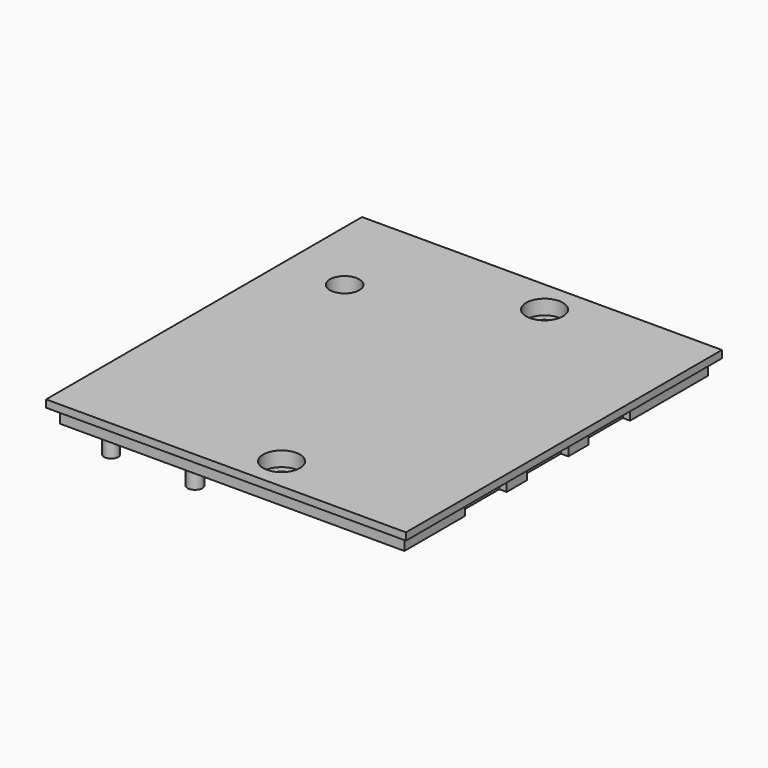
from build123d import *

# Parameters (mm, degrees)
SKETCH005_W     = 48.896005
SKETCH005_H     = 53.655467
PAD003_DEPTH    = 1
SKETCH006_W     = 46.796005
SKETCH006_H     = 51.555467
PAD004_DEPTH    = 2
SKETCH007_R     = 0.95
SKETCH007_R_2   = 1.001433
SKETCH007_R_3   = 1
SKETCH007_R_4   = 0.951025
PAD005_DEPTH    = 3
SKETCH008_R     = 2.5
POCKET002_DEPTH = 2
SKETCH009_R     = 1.5
POCKET003_DEPTH = 5
SKETCH010_W     = 7.035641
SKETCH010_H     = 2
SKETCH010_W_2   = 7.054697
SKETCH010_W_3   = 7.079575
POCKET004_DEPTH = 1
SKETCH011_R     = 2
POCKET005_DEPTH = 5


with BuildPart() as part:
    # Sketch005 (on Face1 of CopyBinder) → Pad003 (new body)
    with BuildSketch(Plane.XY.offset(6.0393)):
        with Locations((23.137507, 25.410293)):
            Rectangle(SKETCH005_W, SKETCH005_H)
    extrude(amount=PAD003_DEPTH)

    # Sketch006 (on Face5 of Pad003) → Pad004 (join)
    with BuildSketch(Plane(origin=(0, 0, 6.0393), x_dir=(1, 0, 0), z_dir=(0, 0, -1))):
        with Locations((23.137507, -25.410293)):
            Rectangle(SKETCH006_W, SKETCH006_H)
    extrude(amount=PAD004_DEPTH)

    # Sketch007 (on Face2 of Binder001) → Pad005 (join)
    with BuildSketch(Plane.XY.offset(1.0393)):
        with Locations((4.794625, 2.000882)):
            Circle(SKETCH007_R)
        with Locations((16.190751, 1.997755)):
            Circle(SKETCH007_R_2)
        with Locations((27.124204, 11.274795)):
            Circle(SKETCH007_R_3)
        with Locations((27.14775, 36.64242)):
            Circle(SKETCH007_R_3)
        with Locations((16.21209, 49.004375)):
            Circle(SKETCH007_R_4)
        with Locations((4.787556, 48.988897)):
            Circle(SKETCH007_R)
    extrude(amount=PAD005_DEPTH)

    # Sketch008 (on Face5 of Pad005) → Pocket002 (cut)
    with BuildSketch(Plane.XY.offset(7.0393)):
        with Locations((27.08551, 47.738026)):
            Circle(SKETCH008_R)
        with Locations((27.08551, 3.082559)):
            Circle(SKETCH008_R)
    extrude(amount=-POCKET002_DEPTH, mode=Mode.SUBTRACT)

    # Sketch009 (on Face14 of Pocket002) → Pocket003 (cut)
    with BuildSketch(Plane.XY.offset(5.0393)):
        with Locations((27.08551, 3.082559)):
            Circle(SKETCH009_R)
        with Locations((27.08551, 47.738026)):
            Circle(SKETCH009_R)
    extrude(amount=-POCKET003_DEPTH, mode=Mode.SUBTRACT)

    # Sketch010 (on Face8 of Pocket003) → Pocket004 (cut)
    with BuildSketch(Plane.YZ.offset(46.53551)):
        with Locations((23.944557, 5.0393)):
            Rectangle(SKETCH010_W, SKETCH010_H)
        with Locations((34.439561, 5.0393)):
            Rectangle(SKETCH010_W_2, SKETCH010_H)
        with Locations((13.454822, 5.0393)):
            Rectangle(SKETCH010_W_3, SKETCH010_H)
    extrude(amount=-POCKET004_DEPTH, mode=Mode.SUBTRACT)

    # Sketch011 (on Face4 of Pocket004) → Pocket005 (cut)
    with BuildSketch(Plane.XY.offset(7.0393)):
        with Locations((6.969133, 38.932186)):
            Circle(SKETCH011_R)
    extrude(amount=-POCKET005_DEPTH, mode=Mode.SUBTRACT)


solid = part.part
